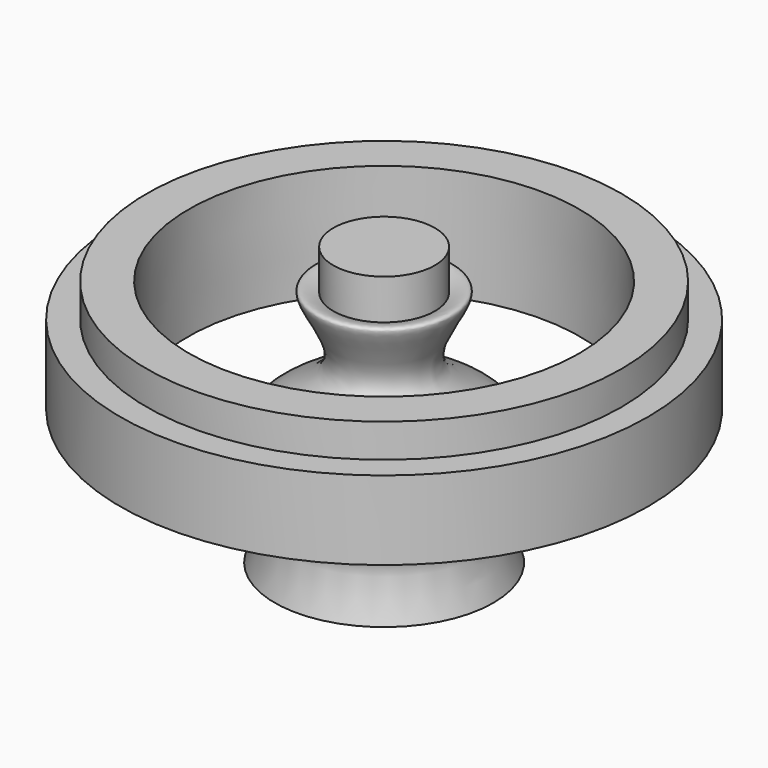
from build123d import *


with BuildPart() as f1:
    # F0 (on Front) → F1 (revolve)
    with BuildSketch(Plane.XZ):
        with BuildLine():
            add(Edge.make_bspline(
                [(20.7657199354, 47.2617876213), (15.3935194079, 45.087543348), (7.696759704, 40.9933165806), (0, 36.8990898132)],
                knots=[0.8874216023, 0.8874216023, 0.8874216023, 0.8874216023, 1, 1, 1, 1], degree=3))
            Line((0, 36.8990898132), (0, -49.9974638224))
            Line((0, -49.9974638224), (44.7261705995, -49.9974638224))
            add(Edge.make_bspline(
                [(44.7261705995, -49.9974638224), (42.3270269882, -42.9713622345), (37.2664933268, -28.1511474596), (54.7891132901, 3.6187265343), (15.2725633245, 15.6864097768), (20.5158598704, 34.2553930575), (31.489974877, 50.3481353467), (24.4586991051, 48.7564151524), (20.7657199354, 47.2617876213)],
                knots=[0, 0, 0, 0, 0.1647999694, 0.3476139521, 0.5377593223, 0.6776921881, 0.8100325184, 0.8874216023, 0.8874216023, 0.8874216023, 0.8874216023], degree=3))
        make_face()
        with BuildLine():
            Line((0, 63.7347921729), (0, 36.8990898132))
            add(Edge.make_bspline(
                [(20.7657199354, 47.2617876213), (15.3935194079, 45.087543348), (7.696759704, 40.9933165806), (0, 36.8990898132)],
                knots=[0.8874216023, 0.8874216023, 0.8874216023, 0.8874216023, 1, 1, 1, 1], degree=3))
            Line((20.7657199354, 47.2617876213), (20.7657199354, 63.7347921729))
            Line((20.7657199354, 63.7347921729), (0, 63.7347921729))
        make_face()
    revolve(axis=Axis((0, 0, -6.5491870046), (0, 0, -1)))


with BuildPart() as f1b:
    # F0 (on Front) → F1, piece 2 (revolve)
    with BuildSketch(Plane.XZ):
        Polygon((97.1196815372, 51.2753538787), (79.8681601882, 51.2753538787), (80.1876336336, 5.2712983452), (107.981748879, 5.2712983452), (107.981748879, 37.5380329788), (97.1196815372, 37.5380329788), align=None)
    revolve(axis=Axis((0, 0, -6.5491870046), (0, 0, -1)))


solid = Compound([f1.part, f1b.part])
